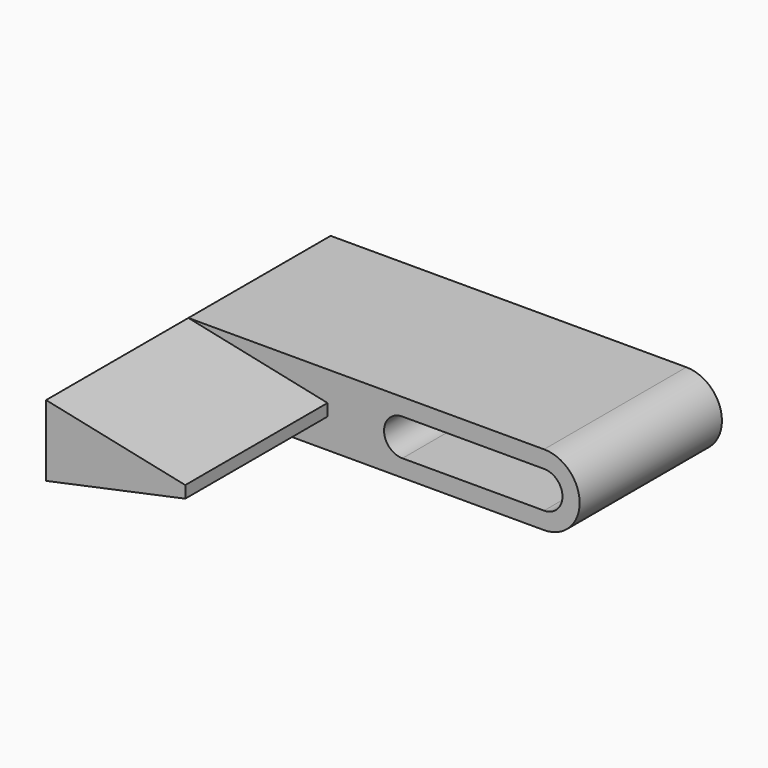
from build123d import *

# Parameters (mm, degrees)
F1_DEPTH = 25
F3_DEPTH = 25


with BuildPart() as f1:
    # F0 (on Front) → F1 (new body)
    with BuildSketch(Plane.XZ):
        with BuildLine():
            Line((2.366019, 5.866973), (-47.633981, 5.866973))
            Line((-47.633981, 5.866973), (-47.633981, -4.133027))
            Line((-47.633981, -4.133027), (2.366019, -4.133027))
            ThreePointArc((2.366019, -4.133027), (7.366019, 0.866973), (2.366019, 5.866973))
        make_face()
        with BuildLine():
            ThreePointArc((2.366019, 3.449053), (4.948099, 0.866973), (2.366019, -1.715107))
            Line((2.366019, -1.715107), (-17.543796, -1.715107))
            ThreePointArc((-17.543796, -1.715107), (-20.125876, 0.866973), (-17.543796, 3.449053))
            Line((-17.543796, 3.449053), (2.366019, 3.449053))
        make_face(mode=Mode.SUBTRACT)
    extrude(amount=F1_DEPTH)

    # F2 (on face) → F3 (join)
    with BuildSketch(Plane.XZ.offset(25)):
        Polygon((-28.071029, 1.708739), (-47.633981, 5.866973), (-47.633981, -4.133027), (-28.071029, 0.025206), align=None)
    extrude(amount=F3_DEPTH)


solid = f1.part
